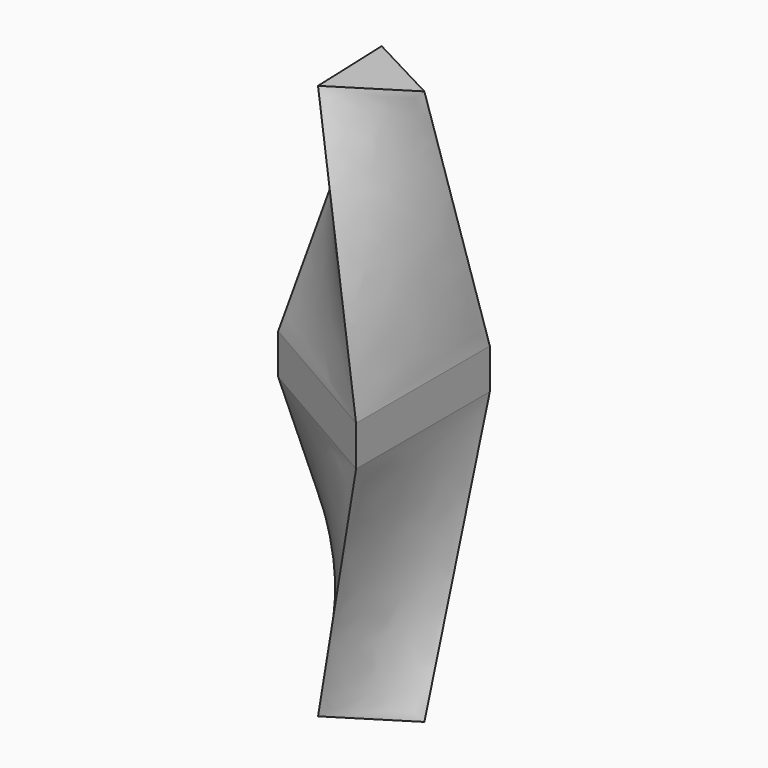
from build123d import *

# Parameters (mm, degrees)
F4_DEPTH = 25


with BuildPart() as f3:
    # F0 (on Top) → F3 section 0
    with BuildSketch(Plane.XY):
        Polygon((30, 51.9615242271), (-60, 0), (30, -51.9615242271), align=None)
    # F2 (on offset) → F3 section 1
    with BuildSketch(Plane.XY.offset(160)):
        Polygon((-15.9717522427, 25.3949430064), (-14.0067896499, -26.5294146883), (29.9785418925, 1.1344716819), align=None)
    loft()


with BuildPart() as f4:
    # F4 (new): a face of the model
    f4_faces = [f3.part.faces().sort_by_distance(p)[0] for p in [
        (0, 0, 0),
    ]]
    extrude(f4_faces, amount=F4_DEPTH)


with BuildPart() as f6_1:
    # F6: instance of F3
    add(f3.part.mirror(Plane(origin=(0, 0, -12.5), x_dir=(1, 0, 0), z_dir=(0, 0, -1))))


solid = Compound([f3.part, f4.part, f6_1.part])
